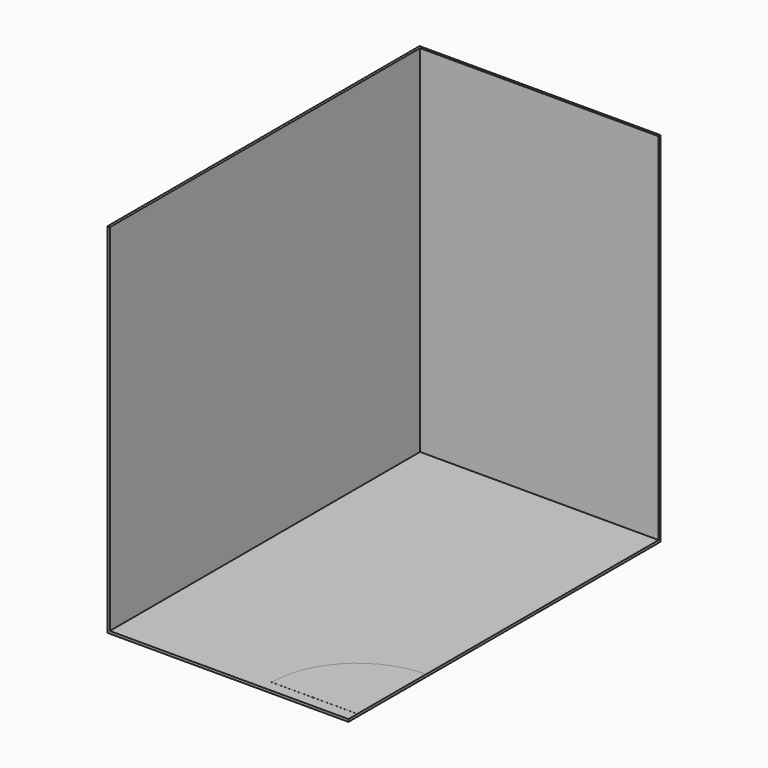
from build123d import *

# Parameters (mm, degrees)
F0_W     = 2463.8
F0_H     = 3987.8
F1_DEPTH = 3657.6
F2_W     = 3442.794827
F2_H     = 5006.721598
F3_DEPTH = 3632.2
F5_DEPTH = 0.508


with BuildPart() as f1:
    # F0 (on Top) → F1 (new body)
    with BuildSketch(Plane.XY):
        Rectangle(F0_W, F0_H)
    extrude(amount=F1_DEPTH)

    # F2 (on face) → F3 (cut)
    with BuildSketch(Plane.XY.offset(3657.6)):
        with Locations((514.897413, -534.860799)):
            Rectangle(F2_W, F2_H)
    extrude(amount=-F3_DEPTH, mode=Mode.SUBTRACT)

    # F4 (on face) → F5 (join)
    with BuildSketch(Plane.XY.offset(25.4)):
        with BuildLine():
            ThreePointArc((1231.9, -1003.3), (612.262328, -1259.962328), (355.6, -1879.6))
            Line((355.6, -1879.6), (1231.9, -1879.6))
            Line((1231.9, -1879.6), (1231.9, -1003.3))
        make_face()
    extrude(amount=F5_DEPTH)


solid = f1.part
